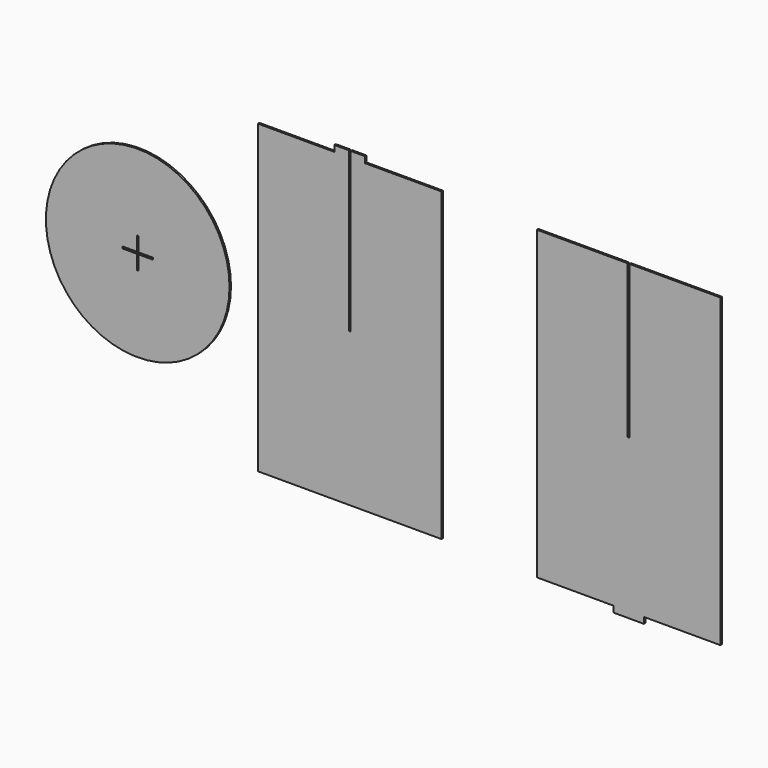
from build123d import *

# Parameters (mm, degrees)
F1_DEPTH = 3
F2_R     = 150
F3_DEPTH = 3


with BuildPart() as f1:
    # F0 (on Front) → F1 (new body)
    with BuildSketch(Plane.XZ):
        Polygon((-150, 250), (-150, -250), (150, -250), (150, 250), (25, 250), (25, 260), (1.5, 260), (1.5, 250), (1.5, 0), (-1.5, 0), (-1.5, 250), (-1.5, 260), (-25, 260), (-25, 250), align=None)
        Polygon((305.754572, 245.614678), (305.754572, -254.385322), (430.754572, -254.385322), (430.754572, -264.385322), (454.254572, -264.385322), (457.254572, -264.385322), (480.754572, -264.385322), (480.754572, -254.385322), (605.754572, -254.385322), (605.754572, 245.614678), (480.754572, 245.614678), (457.254572, 245.614678), (457.254572, -4.385322), (454.254572, -4.385322), (454.254572, 245.614678), (430.754572, 245.614678), align=None)
    extrude(amount=F1_DEPTH)


with BuildPart() as f3:
    # F2 (on Front) → F3 (new body)
    with BuildSketch(Plane.XZ):
        with Locations((-346.325147, 0)):
            Circle(F2_R)
        Polygon((-347.825147, -1.5), (-371.325147, -1.5), (-371.325147, 1.5), (-347.825147, 1.5), (-347.825147, 25), (-344.825147, 25), (-344.825147, 1.5), (-321.325147, 1.5), (-321.325147, -1.5), (-344.825147, -1.5), (-344.825147, -25), (-347.825147, -25), align=None, mode=Mode.SUBTRACT)
    extrude(amount=F3_DEPTH)


solid = Compound([f1.part, f3.part])
